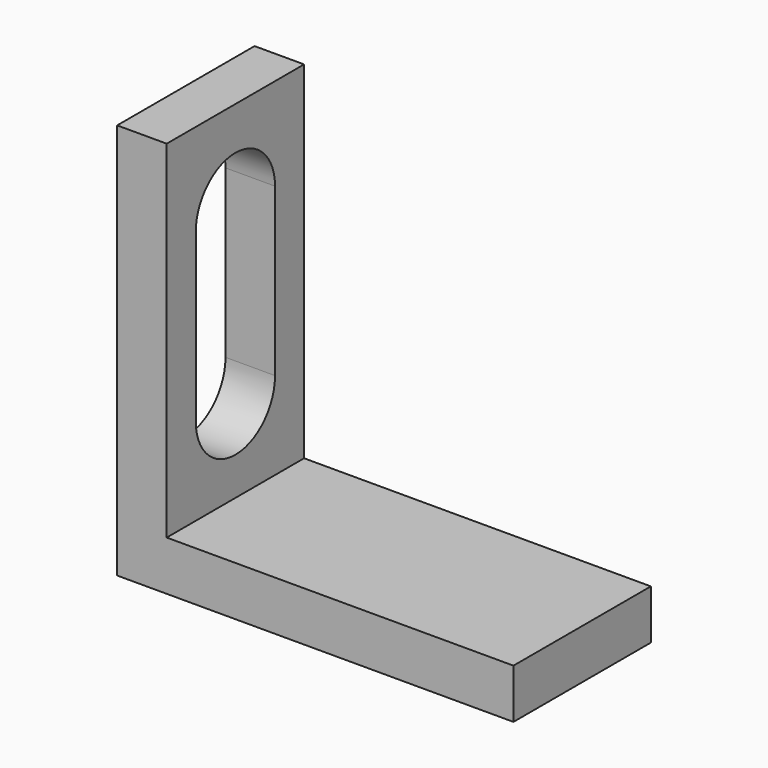
from build123d import *

# Parameters (mm, degrees)
F1_DEPTH = 5.2
F3_DEPTH = 25


with BuildPart() as f1:
    # F0 (on Front) → F1 (new body)
    with BuildSketch(Plane.XZ):
        Polygon((1.5, 0), (0, 0), (0, -12), (12, -12), (12, -10.5), (1.5, -10.5), align=None)
    extrude(amount=F1_DEPTH)

    # F2 (on face) → F3 (cut)
    with BuildSketch(Plane.YZ.offset(1.5)):
        with BuildLine():
            ThreePointArc((-4.1, -7.85), (-2.6, -9.35), (-1.1, -7.85))
            Line((-1.1, -7.85), (-1.1, -2.8))
            ThreePointArc((-1.1, -2.8), (-2.6, -1.3), (-4.1, -2.8))
            Line((-4.1, -2.8), (-4.1, -7.85))
        make_face()
    extrude(amount=-F3_DEPTH, mode=Mode.SUBTRACT)


solid = f1.part
